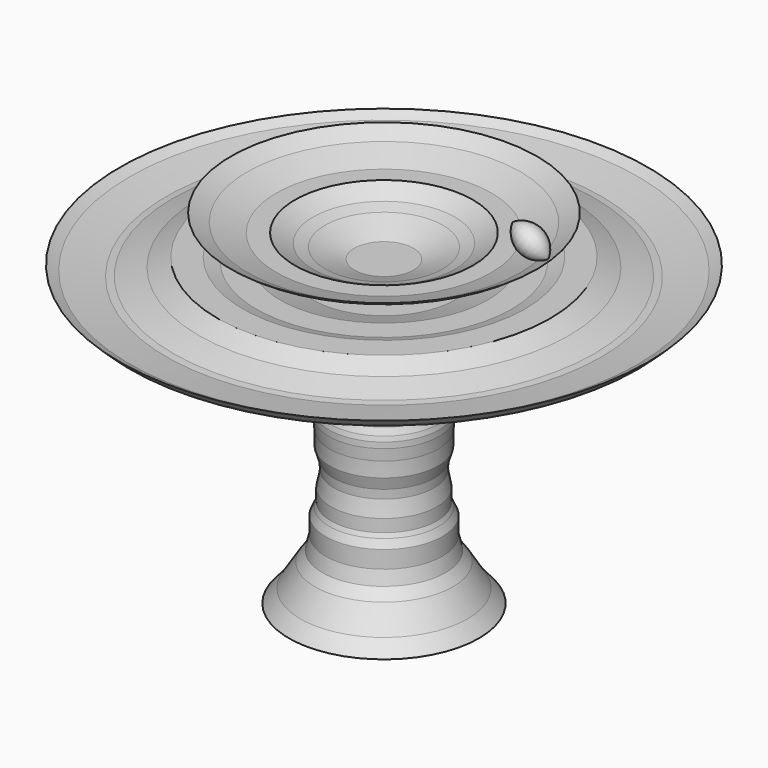
from build123d import *


with BuildPart() as f1:
    # F0 (on Front) → F1 (revolve)
    with BuildSketch(Plane.XZ):
        Polygon((-19.0057512373, 74.9712064862), (-23.3616996557, 74.9712064862), (-23.3616996557, -65.8097490668), (-23.0271462351, -68.7148571014), (21.7051114887, -68.7148571014), (16.3118615746, -62.3698532581), (9.3323616311, -51.2661002576), (5.842612125, -46.5073511004), (4.275537096, -40.1623509824), (4.275537096, -31.9000333548), (2.5780752767, -28.2222051173), (1.729345764, -26.2418370694), (1.729345764, -20.3007292002), (0.3147965763, -12.9450717941), (0.5977064138, -8.7014213204), (2.3363148794, -3.0432236381), (2.4123832118, 4.0185302496), (2.8517132159, 9.4369342551), (2.8517132159, 12.2193573043), (2.3363148794, 14.4160082564), (1.0943934321, 17.4913182855), (1.0943934321, 22.4703922868), (1.0943934321, 24.8134844005), (2.3363148794, 27.7423523366), (2.3363148794, 29.3813310564), (2.3363148794, 34.5286130905), (1.2555788271, 37.4956130981), (1.2555788271, 42.4361154437), (0, 45.6922240555), (0, 55.5494219369), (3.9604850596, 63.6599069331), (6.5212308808, 62.963532214), (16.3245443255, 66.467779326), (25.915885217, 68.8961497557), (32.4988030223, 71.2492491274), (36.6770662367, 70.1130032539), (40.1761522964, 72.6482265903), (45.1825968921, 74.4378071351), (51.8851036737, 74.4378071351), (55.5237143139, 73.4483155419), (58.8522031903, 72.5431591272), (64.3200427294, 69.3535804749), (74.496306479, 66.7715445161), (80.2738845921, 65.2003775138), (84.216915071, 66.467779326), (88.1659080528, 66.467779326), (91.5073677897, 68.1385099888), (97.0988124609, 68.1385099888), (101.8091268793, 72.6160481572), (97.0988124609, 70.2608898282), (79.7769352794, 67.6462650299), (76.5086635947, 67.9730921984), (64.4160360098, 71.5681985021), (55.5916950107, 75.8772713508), (43.6080781082, 75.8772713508), (37.289340049, 73.8462497521), (25.8768516986, 73.8462497521), (10.2484636009, 68.8228426284), (-2.8450967937, 68.8228426284), (-4.5201326924, 72.1729128329), (14.368251616, 81.6171094775), (15.7682315394, 82.0671027255), (17.3382521368, 82.8521133974), (20.1008729637, 84.2334244676), (27.0320730164, 84.2334244676), (30.3965378788, 85.3148588837), (34.5093123615, 87.3712471028), (39.8022337346, 89.0725421285), (42.4321796745, 90.3875157237), (46.3496856391, 92.3462696373), (49.1999574006, 94.305023551), (41.3649454713, 90.3875157237), (27.6536792517, 85.9803259373), (18.8392885029, 85.9803259373), (10.2484636009, 81.6171094775), (4.6335812658, 79.972229898), (-9.3570416793, 74.9712064862), align=None)
    revolve(axis=Axis((-23.3616996557, 0, 4.5807287097), (0, 0, -1)))


with BuildPart() as f3:
    # F2 (on Front) → F3 (revolve)
    with BuildSketch(Plane.XZ):
        with BuildLine():
            ThreePointArc((54.596029222, 100.2976447344), (49.2039391245, 110.5499244892), (37.6240164042, 110.2511510253))
            Line((37.6240164042, 110.2511510253), (54.596029222, 100.2976447344))
        make_face()
    revolve(axis=Axis((46.1100228131, 0, 105.2743978798), (0.8626004919, 0, -0.5058857494)))


solid = Compound([f1.part, f3.part])
